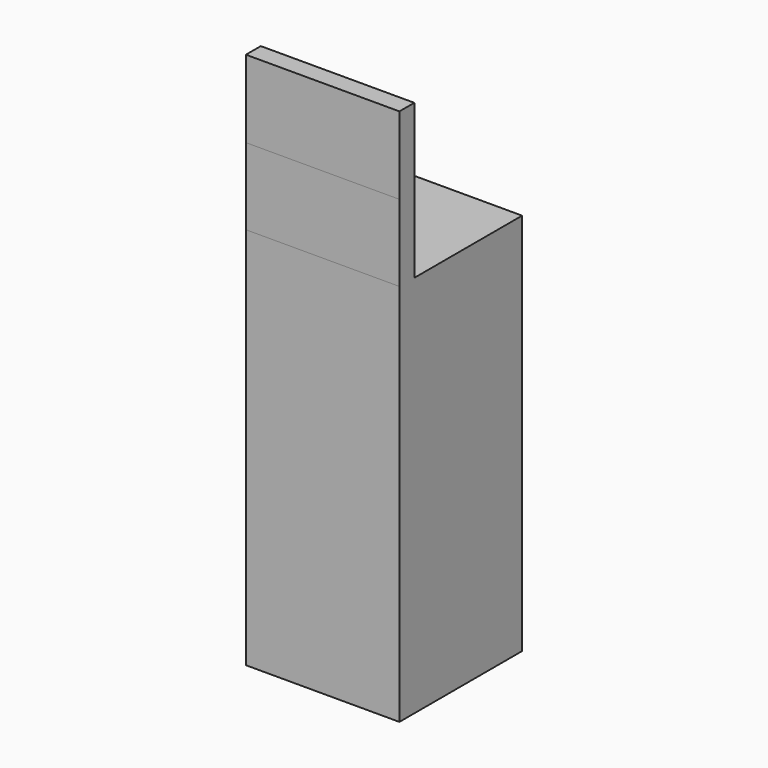
from build123d import *

# Parameters (mm, degrees)
F0_W      = 50.8
F0_H      = 127
F1_DEPTH  = 50.8508
F2_T      = -1.27
F3_W      = 50.8508
F3_H      = 6.161689
F4_DEPTH  = 25.4
F4_FACE_W = 50.8508
F4_FACE_H = 6.16169
F5_DEPTH  = 25.654


with BuildPart() as f1:
    # F0 (on Right) → F1 (new body)
    with BuildSketch(Plane.YZ):
        with Locations((-22.600227, 0.559007)):
            Rectangle(F0_W, F0_H)
    extrude(amount=F1_DEPTH)

    # F2
    f2_openings = [f1.faces().sort_by_distance(p)[0] for p in [
        (25.4254, -22.600227, -62.940993),
    ]]
    offset(amount=F2_T, openings=f2_openings)

    # F3 (on face) → F4 (join)
    with BuildSketch(Plane.XY.offset(64.059007)):
        with Locations((25.4254, -44.919382)):
            Rectangle(F3_W, F3_H)
    extrude(amount=F4_DEPTH)

    # F4_face (on face) → F5 (join)
    with BuildSketch(Plane(origin=(25.4254, -44.919382, 89.459007), x_dir=(1, 0, 0), z_dir=(0, 0, 1))):
        Rectangle(F4_FACE_W, F4_FACE_H)
    extrude(amount=F5_DEPTH)


solid = f1.part
